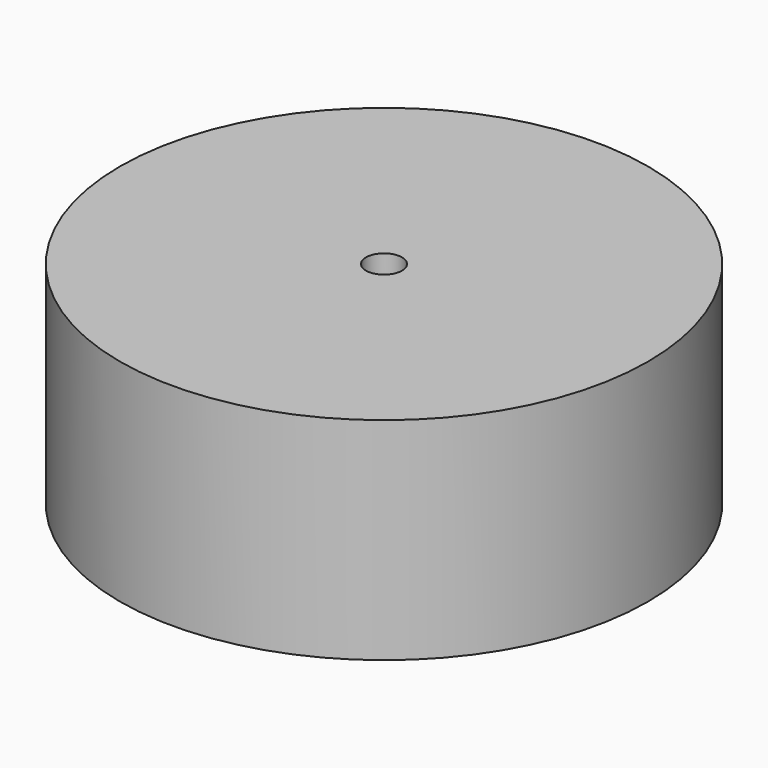
from build123d import *

# Parameters (mm, degrees)
F0_R     = 38.1
F0_R_2   = 33.02
F1_DEPTH = 25.4
F2_R     = 38.1
F3_DEPTH = 5.08
F4_R     = 2.599995
F5_DEPTH = 228.6


with BuildPart() as f1:
    # F0 (on Top) → F1 (new body)
    with BuildSketch(Plane.XY):
        Circle(F0_R)
        Circle(F0_R_2, mode=Mode.SUBTRACT)
    extrude(amount=F1_DEPTH)

    # F2 (on face) → F3 (join)
    with BuildSketch(Plane.XY.offset(25.4)):
        Circle(F2_R)
    extrude(amount=F3_DEPTH)

    # F4 (on face) → F5 (cut)
    with BuildSketch(Plane(origin=(0, 0, 25.4), x_dir=(1, 0, 0), z_dir=(0, 0, -1))):
        Circle(F4_R)
    extrude(amount=-F5_DEPTH, mode=Mode.SUBTRACT)


solid = f1.part
